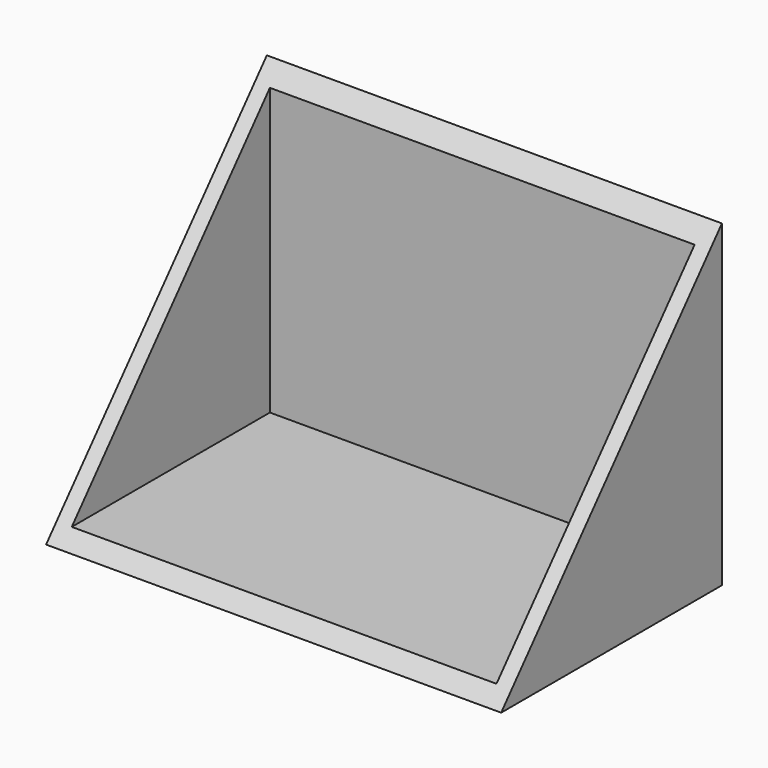
from build123d import *

# Parameters (mm, degrees)
F1_DEPTH = 38.1
F2_T     = -2.54
F3_W     = 7.62
F3_H     = 15.24
F4_DEPTH = 19.05
F5_R     = 5.08
F6_R     = 4.594696
F7_DEPTH = 39.878


with BuildPart() as f1:
    # F0 (on Right) → F1 (new body, symmetric)
    with BuildSketch(Plane.YZ):
        Polygon((37.679132, -31.786919), (37.679132, 21.553082), (-8.528198, -31.786919), align=None)
    extrude(amount=F1_DEPTH, both=True)

    # F2
    f2_openings = [f1.faces().sort_by_distance(p)[0] for p in [
        (0, 14.575467, -5.116918),
    ]]
    offset(amount=F2_T, openings=f2_openings)

    # F3 (on face) → F4 (join)
    with BuildSketch(Plane(origin=(0, 37.679132, 0), x_dir=(-1, 0, 0), z_dir=(0, 1, 0))):
        with Locations((-12.7, 0)):
            Rectangle(F3_W, F3_H)
        with Locations((12.7, 0)):
            Rectangle(F3_W, F3_H)
    extrude(amount=F4_DEPTH)

    # F5
    f5_edges = [f1.edges().sort_by_distance(p)[0] for p in [
        (12.7, 56.729132, 7.62),
        (12.7, 56.729132, -7.62),
        (-12.7, 56.729132, -7.62),
        (-12.7, 56.729132, 7.62),
    ]]
    fillet(f5_edges, radius=F5_R)

    # F6 (on face) → F7 (cut)
    with BuildSketch(Plane(origin=(-16.51, 0, 0), x_dir=(0, -1, 0), z_dir=(-1, 0, 0))):
        with Locations((-47.819119, 0)):
            Circle(F6_R)
    extrude(amount=-F7_DEPTH, mode=Mode.SUBTRACT)


solid = f1.part
